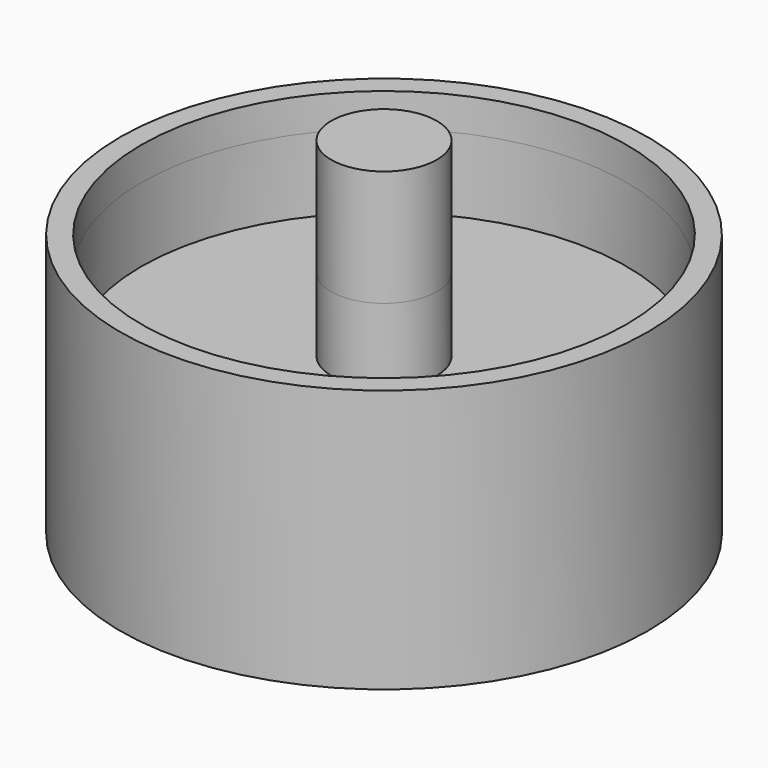
from build123d import *

# Parameters (mm, degrees)
F2_DEPTH = 8.89
F3_DEPTH = 8.89


with BuildPart() as f1:
    # F0 (on Front) → F1 (revolve)
    with BuildSketch(Plane.XZ):
        Polygon((29.21, 15.1165612042), (29.21, 11.1276201193), (29.21, -11.7323798807), (29.21, -16.5423657745), (31.7501313984, -16.5423657745), (31.7501313984, 15.1165612042), align=None)
        Polygon((6.35, 25.0976201193), (0, 25.0976201193), (0, -25.7023798807), (6.35, -25.7023798807), (6.35, -11.7323798807), (29.21, -11.7323798807), (29.21, 11.1276201193), (6.35, 11.1276201193), align=None)
    revolve(axis=Axis((0, 0, -0.3023798807), (0, 0, -1)))

    # F2 (cut): a face of the model
    f2_faces = [f1.faces().sort_by_distance(p)[0] for p in [
        (-28.3838164369, 0, 11.1276201193),
    ]]
    extrude(f2_faces, amount=-F2_DEPTH, mode=Mode.SUBTRACT)

    # F3 (cut): a face of the model
    f3_faces = [f1.faces().sort_by_distance(p)[0] for p in [
        (-7.1761835631, 0, -11.7323798807),
    ]]
    extrude(f3_faces, amount=-F3_DEPTH, mode=Mode.SUBTRACT)


solid = f1.part
